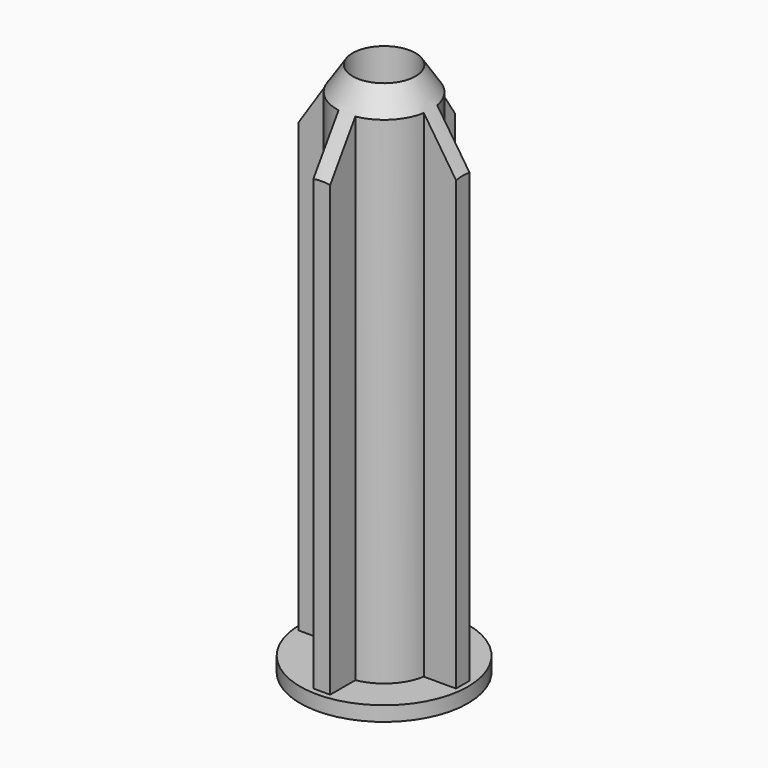
from build123d import *

# Parameters (mm, degrees)
F0_R     = 1.5
F1_DEPTH = 25
F2_R     = 4
F2_R_2   = 1.5
F3_DEPTH = 0.7
F4_SIZE  = 1


with BuildPart() as f1:
    # F0 (on Top) → F1 (new body)
    with BuildSketch(Plane.XY):
        with BuildLine():
            Line((3.75, 0.4), (2.214159, 0.4))
            ThreePointArc((2.214159, 0.4), (1.59099, 1.59099), (0.4, 2.214159))
            Line((0.4, 2.214159), (0.4, 3.714159))
            Line((0.4, 3.714159), (-0.4, 3.714159))
            Line((-0.4, 3.714159), (-0.4, 2.214159))
            ThreePointArc((-0.4, 2.214159), (-1.59099, 1.59099), (-2.214159, 0.4))
            Line((-2.214159, 0.4), (-3.75, 0.4))
            Line((-3.75, 0.4), (-3.75, -0.4))
            Line((-3.75, -0.4), (-2.214159, -0.4))
            ThreePointArc((-2.214159, -0.4), (-1.59099, -1.59099), (-0.4, -2.214159))
            Line((-0.4, -2.214159), (-0.4, -3.714159))
            Line((-0.4, -3.714159), (0.4, -3.714159))
            Line((0.4, -3.714159), (0.4, -2.214159))
            ThreePointArc((0.4, -2.214159), (1.59099, -1.59099), (2.214159, -0.4))
            Line((2.214159, -0.4), (3.75, -0.4))
            Line((3.75, -0.4), (3.75, 0.4))
        make_face()
        Circle(F0_R, mode=Mode.SUBTRACT)
    extrude(amount=F1_DEPTH)

    # F2 (on face) → F3 (join)
    with BuildSketch(Plane(origin=(0, 0, 0), x_dir=(1, 0, 0), z_dir=(0, 0, -1))):
        Circle(F2_R)
        Circle(F2_R_2, mode=Mode.SUBTRACT)
    extrude(amount=F3_DEPTH)

    # F4
    f4_edges = [f1.edges().sort_by_distance(p)[0] for p in [
        (-1.5, 0, -0.7),
    ]]
    chamfer(f4_edges, length=F4_SIZE)

    # F5 (on Right) → F6 (revolve, intersect)
    with BuildSketch(Plane.YZ):
        Polygon((4.396838, 20.37701), (0, 27.094347), (0, -1.847252), (4.396838, -1.802312), align=None)
    revolve(axis=Axis((0, 0, 12.623548), (0, 0, -1)), mode=Mode.INTERSECT)


solid = f1.part
